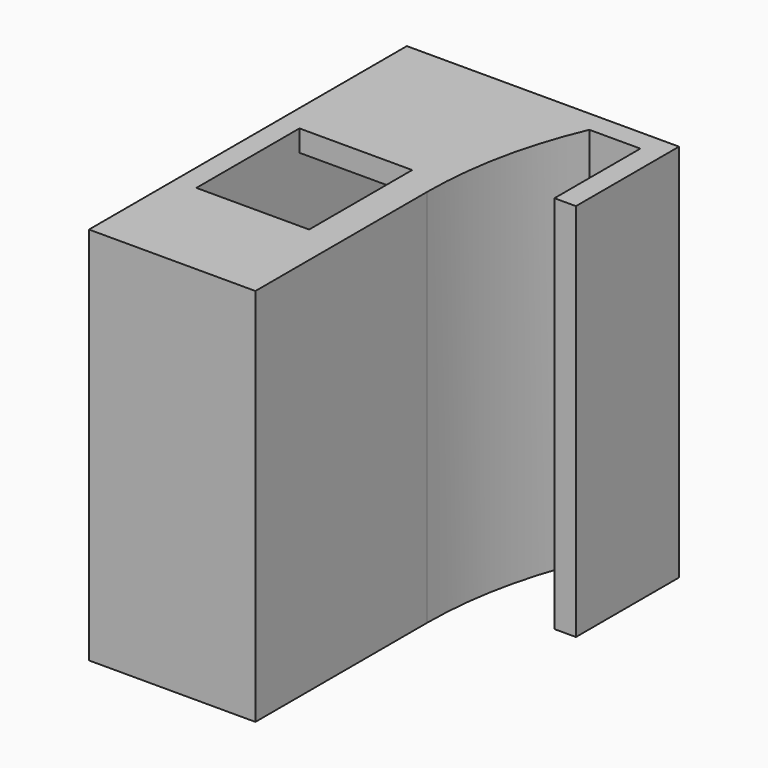
from build123d import *

# Parameters (mm, degrees)
F1_DEPTH = 35.33
F2_W     = 11.5
F2_H     = 31.33
F3_DEPTH = 35
F4_W     = 10.5
F4_H     = 12
F5_DEPTH = 2


with BuildPart() as f1:
    # F0 (on Top) → F1 (new body)
    with BuildSketch(Plane.XY):
        with BuildLine():
            Line((0, 37), (0, 0))
            Line((0, 0), (15.5, 0))
            Line((15.5, 0), (15.5, 20))
            ThreePointArc((15.5, 20), (16.283103, 27.658492), (18.6, 35))
            Line((18.6, 35), (23.35, 35))
            Line((23.35, 35), (23.35, 25))
            Line((23.35, 25), (25.35, 25))
            Line((25.35, 25), (25.35, 37))
            Line((25.35, 37), (0, 37))
        make_face()
    extrude(amount=F1_DEPTH)

    # F2 (on face) → F3 (cut)
    with BuildSketch(Plane(origin=(0, 37, 0), x_dir=(-1, 0, 0), z_dir=(0, 1, 0))):
        with Locations((-7.75, 17.665)):
            Rectangle(F2_W, F2_H)
    extrude(amount=-F3_DEPTH, mode=Mode.SUBTRACT)

    # F4 (on face) → F5 (cut)
    with BuildSketch(Plane.XY.offset(35.33)):
        with Locations((7.25, 16)):
            Rectangle(F4_W, F4_H)
    extrude(amount=-F5_DEPTH, mode=Mode.SUBTRACT)


solid = f1.part
